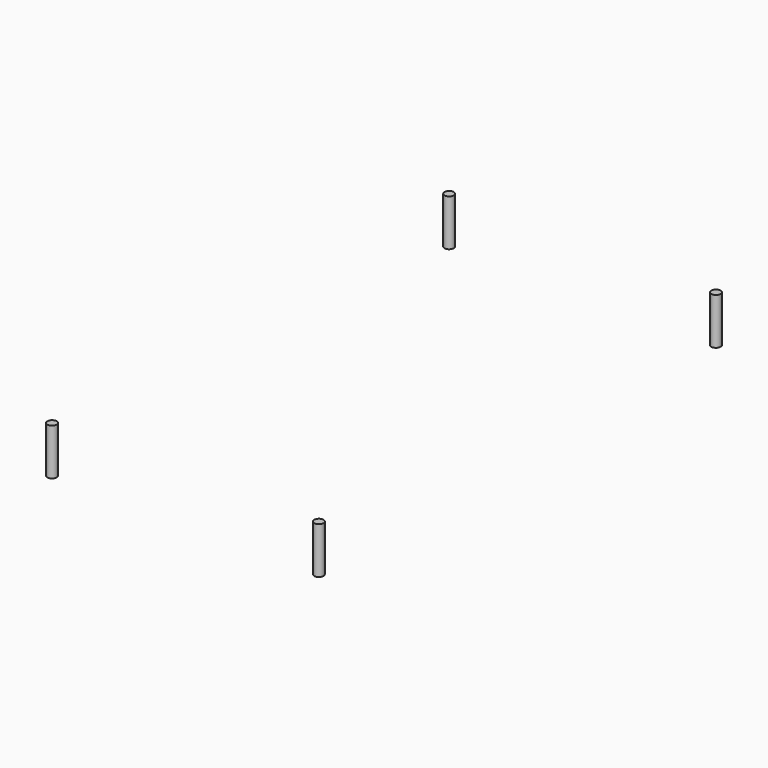
from build123d import *

# Parameters (mm, degrees)
CYLINDER006_R     = 1.5
CYLINDER006_DEPTH = 15


with BuildPart() as obj1:
    # Cylinder006 → Cylinder006 (new body)
    with BuildSketch(Plane(origin=(-43, 80, 30), x_dir=(1, 0, 0), z_dir=(0, 0, 1))):
        Circle(CYLINDER006_R)
    extrude(amount=CYLINDER006_DEPTH)


with BuildPart() as part_mirroring:
    # Part__Mirroring: instance of obj1
    add(obj1.part.mirror(Plane(origin=(0, 0, 0), x_dir=(1, 0, 0), z_dir=(0, 1, 0))))


with BuildPart() as fusion:
    # Fusion base: copy of obj1
    add(obj1.part)

    # Fusion: union Part__Mirroring
    add(part_mirroring.part)


with BuildPart() as part_mirroring018:
    # Part__Mirroring018: instance of Fusion
    add(fusion.part.mirror(Plane(origin=(0, 0, 0), x_dir=(0, -1, 0), z_dir=(1, 0, 0))))


with BuildPart() as obj2:
    # Fusion001044 base: copy of Fusion
    add(fusion.part)

    # Fusion001044: union Part__Mirroring018
    add(part_mirroring018.part)


solid = obj2.part
